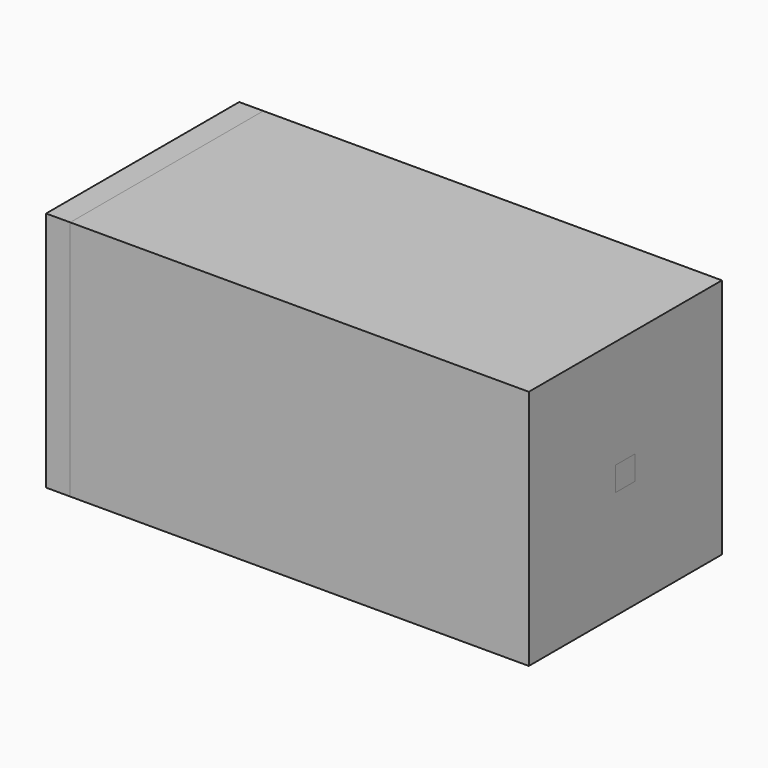
from build123d import *

# Parameters (mm, degrees)
F0_W      = 100
F0_H      = 50
F1_DEPTH  = 50
F1_FACE_W = 50
F1_FACE_H = 50
F3_DEPTH  = 5
F4_W      = 5
F4_H      = 5
F5_DEPTH  = 10


with BuildPart() as f1:
    # F0 (on Front) → F1 (new body)
    with BuildSketch(Plane.XZ):
        with Locations((50, 25)):
            Rectangle(F0_W, F0_H)
    extrude(amount=F1_DEPTH)


with BuildPart() as f3:
    # F1_face (on face) → F3 (new body)
    with BuildSketch(Plane(origin=(0, -25, 25), x_dir=(0, -1, 0), z_dir=(-1, 0, 0))):
        Rectangle(F1_FACE_W, F1_FACE_H)
    extrude(amount=-F3_DEPTH)


with BuildPart() as f5:
    # F4 (on face) → F5 (new body)
    with BuildSketch(Plane.YZ.offset(100)):
        with Locations((-25, 25)):
            Rectangle(F4_W, F4_H)
    extrude(amount=-F5_DEPTH)


solid = Compound([f1.part, f3.part, f5.part])
